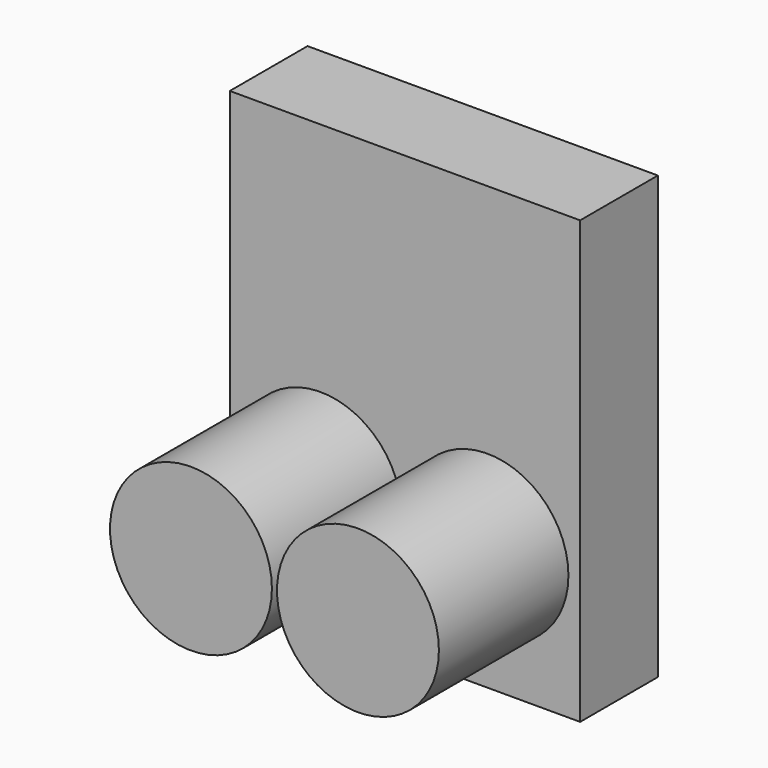
from build123d import *

# Parameters (mm, degrees)
F0_R     = 6.985
F1_DEPTH = 13.97
F0_W     = 0.508
F0_H     = 38.1
F0_W_2   = 29.21
F2_DEPTH = 3.81
F3_DEPTH = 8.382


with BuildPart() as f1:
    # F0 (on Front) → F1 (new body)
    with BuildSketch(Plane.XZ):
        with Locations((7.117974, -8.254721)):
            Circle(F0_R)
        with Locations((-7.290998, -8.254721)):
            Circle(F0_R)
    extrude(amount=F1_DEPTH)



with BuildPart() as f2:
    # F0 (on Front) → F2 (new body)
    with BuildSketch(Plane.XZ):
        with Locations((14.859, 0)):
            Rectangle(F0_W, F0_H)
        Rectangle(F0_W_2, F0_H)
        with Locations((-7.290998, -8.254721)):
            Circle(F0_R, mode=Mode.SUBTRACT)
        with Locations((7.117974, -8.254721)):
            Circle(F0_R, mode=Mode.SUBTRACT)
        with Locations((-14.859, 0)):
            Rectangle(F0_W, F0_H)
    extrude(amount=-F2_DEPTH)


with BuildPart() as f1_1:
    add(f1.part)

    add(f2.part)  # F3 merges F2
    # F0 (on Front) → F3 (join)
    with BuildSketch(Plane.XZ):
        with Locations((14.859, 0)):
            Rectangle(F0_W, F0_H)
        Rectangle(F0_W_2, F0_H)
        with Locations((-7.290998, -8.254721)):
            Circle(F0_R, mode=Mode.SUBTRACT)
        with Locations((7.117974, -8.254721)):
            Circle(F0_R, mode=Mode.SUBTRACT)
        with Locations((-14.859, 0)):
            Rectangle(F0_W, F0_H)
    extrude(amount=-F3_DEPTH)


solid = f1_1.part
